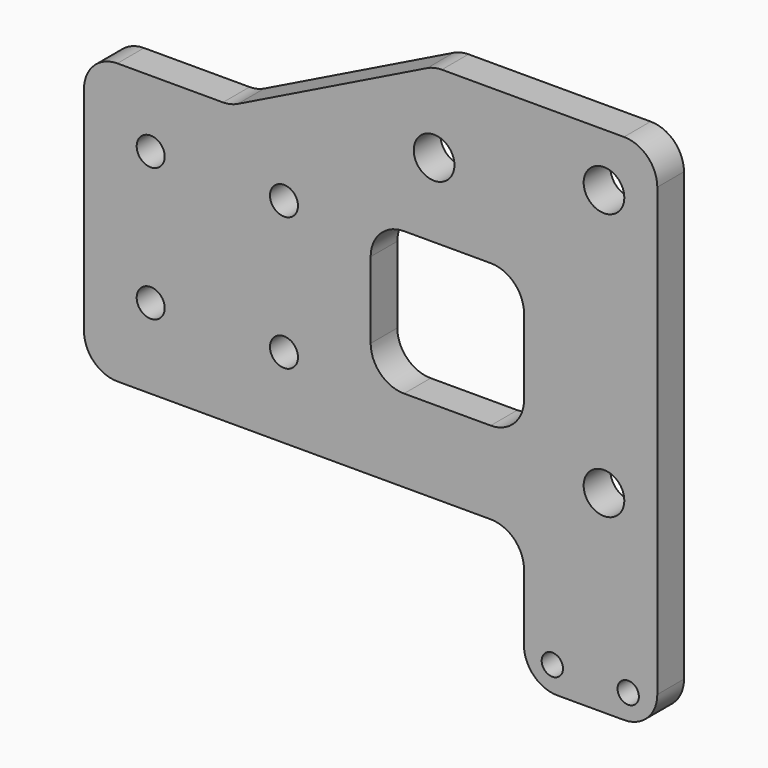
from build123d import *

# Parameters (mm, degrees)
F1_R     = 2.1
F1_R_2   = 1.6
F1_R_3   = 3.05
F1_W     = 23
F1_H     = 21.447819
F2_DEPTH = 5
F3_R     = 5


with BuildPart() as f2:
    # F1 (on offset) → F2 (new body)
    with BuildSketch(Plane.XZ.offset(10)):
        Polygon((23, -18.5), (23, -38.5), (43, -38.5), (43, 38.5), (9.512293, 38.5), (-21, 23.5), (-43, 23.5), (-43, -18.5), align=None)
        with Locations((-33, -6.5)):
            Circle(F1_R, mode=Mode.SUBTRACT)
        with Locations((-13, -6.5)):
            Circle(F1_R, mode=Mode.SUBTRACT)
        with Locations((27.253961, -34.684543)):
            Circle(F1_R_2, mode=Mode.SUBTRACT)
        with Locations((38.63319, -34.684543)):
            Circle(F1_R_2, mode=Mode.SUBTRACT)
        with Locations((35, -9.5)):
            Circle(F1_R_3, mode=Mode.SUBTRACT)
        with Locations((-33, 13.5)):
            Circle(F1_R, mode=Mode.SUBTRACT)
        with Locations((-13, 13.5)):
            Circle(F1_R, mode=Mode.SUBTRACT)
        with Locations((11.5, 4.606424)):
            Rectangle(F1_W, F1_H, mode=Mode.SUBTRACT)
        with Locations((9.512293, 26.5)):
            Circle(F1_R_3, mode=Mode.SUBTRACT)
        with Locations((35, 30.5)):
            Circle(F1_R_3, mode=Mode.SUBTRACT)
    extrude(amount=F2_DEPTH)

    # F3
    f3_edges = [f2.edges().sort_by_distance(p)[0] for p in [
        (-43, -12.5, -18.5),
        (-43, -12.5, 23.5),
        (0, -12.5, -6.117485),
        (0, -12.5, 15.330334),
        (23, -12.5, 15.330334),
        (23, -12.5, -6.117485),
        (23, -12.5, -18.5),
        (23, -12.5, -38.5),
        (43, -12.5, -38.5),
        (43, -12.5, 38.5),
        (-21, -12.5, 23.5),
        (9.512293, -12.5, 38.5),
    ]]
    fillet(f3_edges, radius=F3_R)


solid = f2.part
